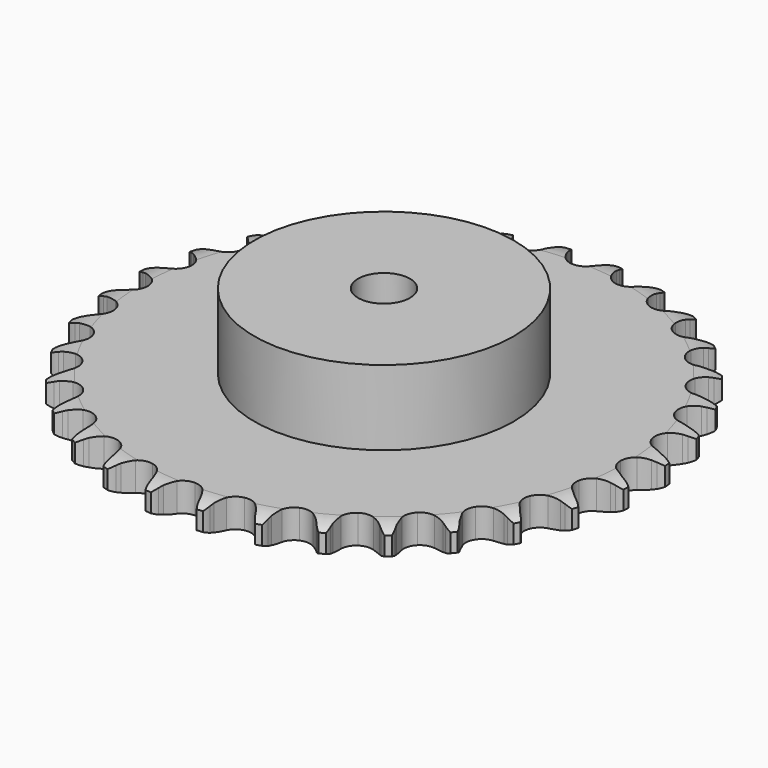
from build123d import *

# Parameters (mm, degrees)
PAD_DEPTH         = 11.1
SKETCH001_R       = 50
PAD001_DEPTH      = 40
SKETCH002_R       = 10
POCKET_DEPTH      = 0.001
POCKET_DEPTH_BACK = 40.001


with BuildPart() as part:
    # Sprocket → Pad (new body)
    with BuildSketch(Plane.XY):
        with BuildLine():
            ThreePointArc((-10.116851, 102.718114), (-8.649052, 100.996178), (-7.613699, 98.984326))
            Line((-7.613699, 98.984326), (-7.024915, 97.419964))
            ThreePointArc((-7.024915, 97.419964), (-6.092294, 95.391135), (-4.882294, 93.514481))
            ThreePointArc((-4.882294, 93.514481), (-2.729224, 91.717825), (0, 91.073606))
            ThreePointArc((0, 91.073606), (2.729224, 91.717825), (4.882294, 93.514481))
            ThreePointArc((4.882294, 93.514481), (6.092294, 95.391135), (7.024915, 97.419964))
            Line((7.024915, 97.419964), (7.613699, 98.984326))
            ThreePointArc((7.613699, 98.984326), (8.649052, 100.996178), (10.116851, 102.718114))
            ThreePointArc((10.116851, 102.718114), (11.220514, 100.742911), (11.84348, 98.567729))
            Line((11.84348, 98.567729), (12.115759, 96.918559))
            ThreePointArc((12.115759, 96.918559), (12.634655, 94.746768), (13.455288, 92.670115))
            ThreePointArc((13.455288, 92.670115), (15.216477, 90.487938), (17.767579, 89.323652))
            ThreePointArc((17.767579, 89.323652), (20.570043, 89.423047), (23.032252, 90.765139))
            Line((23.032252, 90.765139), (25.895625, 94.177574))
            ThreePointArc((25.895625, 94.177574), (26.318124, 94.899003), (26.778288, 95.597011))
            ThreePointArc((26.778288, 95.597011), (28.186239, 97.368218), (29.961769, 98.770715))
            ThreePointArc((29.961769, 98.770715), (30.658882, 96.61815), (30.845521, 94.363229))
            Line((30.845521, 94.363229), (30.790831, 92.692629))
            ThreePointArc((30.790831, 92.692629), (30.876061, 90.461337), (31.275791, 88.264488))
            ThreePointArc((31.275791, 88.264488), (32.577417, 85.78065), (34.85236, 84.141041))
            ThreePointArc((34.85236, 84.141041), (37.620367, 83.691792), (40.297094, 84.527742))
            Line((40.297094, 84.527742), (43.771181, 87.315992))
            ThreePointArc((43.771181, 87.315992), (44.326306, 87.941134), (44.913802, 88.535956))
            ThreePointArc((44.913802, 88.535956), (46.640246, 89.998453), (48.655272, 91.027612))
            ThreePointArc((48.655272, 91.027612), (48.919046, 88.780408), (48.662186, 86.532404))
            Line((48.662186, 86.532404), (48.282629, 84.904573))
            ThreePointArc((48.282629, 84.904573), (47.930918, 82.699527), (47.894383, 80.466907))
            ThreePointArc((47.894383, 80.466907), (48.686426, 77.77686), (50.597785, 75.724936))
            ThreePointArc((50.597785, 75.724936), (53.22496, 74.744308), (56.013341, 75.041992))
            Line((56.013341, 75.041992), (59.964635, 77.098906))
            ThreePointArc((59.964635, 77.098906), (60.631053, 77.603736), (61.323305, 78.072515))
            ThreePointArc((61.323305, 78.072515), (63.301894, 79.170097), (65.478981, 79.786369))
            ThreePointArc((65.478981, 79.786369), (65.299279, 77.530885), (64.60879, 75.376186))
            Line((64.60879, 75.376186), (63.918952, 73.853682))
            ThreePointArc((63.918952, 73.853682), (63.143816, 71.759621), (62.672421, 69.577027))
            ThreePointArc((62.672421, 69.577027), (62.924443, 66.784149), (64.398765, 64.398765))
            ThreePointArc((64.398765, 64.398765), (66.784149, 62.924443), (69.577027, 62.672421))
            Line((69.577027, 62.672421), (73.853682, 63.918952))
            ThreePointArc((73.853682, 63.918952), (74.605782, 64.284071), (75.376186, 64.60879))
            ThreePointArc((75.376186, 64.60879), (77.530885, 65.299279), (79.786369, 65.478981))
            ThreePointArc((79.786369, 65.478981), (79.170097, 63.301894), (78.072515, 61.323305))
            Line((78.072515, 61.323305), (77.098906, 59.964635))
            ThreePointArc((77.098906, 59.964635), (75.930133, 58.062032), (75.041992, 56.013341))
            ThreePointArc((75.041992, 56.013341), (74.744308, 53.22496), (75.724936, 50.597785))
            ThreePointArc((75.724936, 50.597785), (77.77686, 48.686426), (80.466907, 47.894383))
            Line((80.466907, 47.894383), (84.904573, 48.282629))
            ThreePointArc((84.904573, 48.282629), (85.713453, 48.494004), (86.532404, 48.662186))
            ThreePointArc((86.532404, 48.662186), (88.780408, 48.919046), (91.027612, 48.655272))
            ThreePointArc((91.027612, 48.655272), (89.998453, 46.640246), (88.535956, 44.913802))
            Line((88.535956, 44.913802), (87.315992, 43.771181))
            ThreePointArc((87.315992, 43.771181), (85.798497, 42.133153), (84.527742, 40.297094))
            ThreePointArc((84.527742, 40.297094), (83.691792, 37.620367), (84.141041, 34.85236))
            ThreePointArc((84.141041, 34.85236), (85.78065, 32.577417), (88.264488, 31.275791))
            Line((88.264488, 31.275791), (92.692629, 30.790831))
            ThreePointArc((92.692629, 30.790831), (93.527204, 30.84034), (94.363229, 30.845521))
            ThreePointArc((94.363229, 30.845521), (96.61815, 30.658882), (98.770715, 29.961769))
            ThreePointArc((98.770715, 29.961769), (97.368218, 28.186239), (95.597011, 26.778288))
            Line((95.597011, 26.778288), (94.177574, 25.895625))
            ThreePointArc((94.177574, 25.895625), (92.369673, 24.585119), (90.765139, 23.032252))
            ThreePointArc((90.765139, 23.032252), (89.423047, 20.570043), (89.323652, 17.767579))
            ThreePointArc((89.323652, 17.767579), (90.487938, 15.216477), (92.670115, 13.455288))
            Line((92.670115, 13.455288), (96.918559, 12.115759))
            ThreePointArc((96.918559, 12.115759), (97.746757, 12.0015), (98.567729, 11.84348))
            ThreePointArc((98.567729, 11.84348), (100.742911, 11.220514), (102.718114, 10.116851))
            ThreePointArc((102.718114, 10.116851), (100.996178, 8.649052), (98.984326, 7.613699))
            Line((98.984326, 7.613699), (97.419964, 7.024915))
            ThreePointArc((97.419964, 7.024915), (95.391135, 6.092294), (93.514481, 4.882294))
            ThreePointArc((93.514481, 4.882294), (91.717825, 2.729224), (91.073606, 0))
            ThreePointArc((91.073606, 0), (91.717825, -2.729224), (93.514481, -4.882294))
            Line((93.514481, -4.882294), (97.419964, -7.024915))
            ThreePointArc((97.419964, -7.024915), (98.209956, -7.298552), (98.984326, -7.613699))
            ThreePointArc((98.984326, -7.613699), (100.996178, -8.649052), (102.718114, -10.116851))
            ThreePointArc((102.718114, -10.116851), (100.742911, -11.220514), (98.567729, -11.84348))
            Line((98.567729, -11.84348), (96.918559, -12.115759))
            ThreePointArc((96.918559, -12.115759), (94.746768, -12.634655), (92.670115, -13.455288))
            ThreePointArc((92.670115, -13.455288), (90.487938, -15.216477), (89.323652, -17.767579))
            ThreePointArc((89.323652, -17.767579), (89.423047, -20.570043), (90.765139, -23.032252))
            Line((90.765139, -23.032252), (94.177574, -25.895625))
            ThreePointArc((94.177574, -25.895625), (94.899003, -26.318124), (95.597011, -26.778288))
            ThreePointArc((95.597011, -26.778288), (97.368218, -28.186239), (98.770715, -29.961769))
            ThreePointArc((98.770715, -29.961769), (96.61815, -30.658882), (94.363229, -30.845521))
            Line((94.363229, -30.845521), (92.692629, -30.790831))
            ThreePointArc((92.692629, -30.790831), (90.461337, -30.876061), (88.264488, -31.275791))
            ThreePointArc((88.264488, -31.275791), (85.78065, -32.577417), (84.141041, -34.85236))
            ThreePointArc((84.141041, -34.85236), (83.691792, -37.620367), (84.527742, -40.297094))
            Line((84.527742, -40.297094), (87.315992, -43.771181))
            ThreePointArc((87.315992, -43.771181), (87.941134, -44.326306), (88.535956, -44.913802))
            ThreePointArc((88.535956, -44.913802), (89.998453, -46.640246), (91.027612, -48.655272))
            ThreePointArc((91.027612, -48.655272), (88.780408, -48.919046), (86.532404, -48.662186))
            Line((86.532404, -48.662186), (84.904573, -48.282629))
            ThreePointArc((84.904573, -48.282629), (82.699527, -47.930918), (80.466907, -47.894383))
            ThreePointArc((80.466907, -47.894383), (77.77686, -48.686426), (75.724936, -50.597785))
            ThreePointArc((75.724936, -50.597785), (74.744308, -53.22496), (75.041992, -56.013341))
            Line((75.041992, -56.013341), (77.098906, -59.964635))
            ThreePointArc((77.098906, -59.964635), (77.603736, -60.631053), (78.072515, -61.323305))
            ThreePointArc((78.072515, -61.323305), (79.170097, -63.301894), (79.786369, -65.478981))
            ThreePointArc((79.786369, -65.478981), (77.530885, -65.299279), (75.376186, -64.60879))
            Line((75.376186, -64.60879), (73.853682, -63.918952))
            ThreePointArc((73.853682, -63.918952), (71.759621, -63.143816), (69.577027, -62.672421))
            ThreePointArc((69.577027, -62.672421), (66.784149, -62.924443), (64.398765, -64.398765))
            ThreePointArc((64.398765, -64.398765), (62.924443, -66.784149), (62.672421, -69.577027))
            Line((62.672421, -69.577027), (63.918952, -73.853682))
            ThreePointArc((63.918952, -73.853682), (64.284071, -74.605782), (64.60879, -75.376186))
            ThreePointArc((64.60879, -75.376186), (65.299279, -77.530885), (65.478981, -79.786369))
            ThreePointArc((65.478981, -79.786369), (63.301894, -79.170097), (61.323305, -78.072515))
            Line((61.323305, -78.072515), (59.964635, -77.098906))
            ThreePointArc((59.964635, -77.098906), (58.062032, -75.930133), (56.013341, -75.041992))
            ThreePointArc((56.013341, -75.041992), (53.22496, -74.744308), (50.597785, -75.724936))
            ThreePointArc((50.597785, -75.724936), (48.686426, -77.77686), (47.894383, -80.466907))
            Line((47.894383, -80.466907), (48.282629, -84.904573))
            ThreePointArc((48.282629, -84.904573), (48.494004, -85.713453), (48.662186, -86.532404))
            ThreePointArc((48.662186, -86.532404), (48.919046, -88.780408), (48.655272, -91.027612))
            ThreePointArc((48.655272, -91.027612), (46.640246, -89.998453), (44.913802, -88.535956))
            Line((44.913802, -88.535956), (43.771181, -87.315992))
            ThreePointArc((43.771181, -87.315992), (42.133153, -85.798497), (40.297094, -84.527742))
            ThreePointArc((40.297094, -84.527742), (37.620367, -83.691792), (34.85236, -84.141041))
            ThreePointArc((34.85236, -84.141041), (32.577417, -85.78065), (31.275791, -88.264488))
            Line((31.275791, -88.264488), (30.790831, -92.692629))
            ThreePointArc((30.790831, -92.692629), (30.84034, -93.527204), (30.845521, -94.363229))
            ThreePointArc((30.845521, -94.363229), (30.658882, -96.61815), (29.961769, -98.770715))
            ThreePointArc((29.961769, -98.770715), (28.186239, -97.368218), (26.778288, -95.597011))
            Line((26.778288, -95.597011), (25.895625, -94.177574))
            ThreePointArc((25.895625, -94.177574), (24.585119, -92.369673), (23.032252, -90.765139))
            ThreePointArc((23.032252, -90.765139), (20.570043, -89.423047), (17.767579, -89.323652))
            ThreePointArc((17.767579, -89.323652), (15.216477, -90.487938), (13.455288, -92.670115))
            Line((13.455288, -92.670115), (12.115759, -96.918559))
            ThreePointArc((12.115759, -96.918559), (12.0015, -97.746757), (11.84348, -98.567729))
            ThreePointArc((11.84348, -98.567729), (11.220514, -100.742911), (10.116851, -102.718114))
            ThreePointArc((10.116851, -102.718114), (8.649052, -100.996178), (7.613699, -98.984326))
            Line((7.613699, -98.984326), (7.024915, -97.419964))
            ThreePointArc((7.024915, -97.419964), (6.092294, -95.391135), (4.882294, -93.514481))
            ThreePointArc((4.882294, -93.514481), (2.729224, -91.717825), (0, -91.073606))
            ThreePointArc((0, -91.073606), (-2.729224, -91.717825), (-4.882294, -93.514481))
            Line((-4.882294, -93.514481), (-7.024915, -97.419964))
            ThreePointArc((-7.024915, -97.419964), (-7.298552, -98.209956), (-7.613699, -98.984326))
            ThreePointArc((-7.613699, -98.984326), (-8.649052, -100.996178), (-10.116851, -102.718114))
            ThreePointArc((-10.116851, -102.718114), (-11.220514, -100.742911), (-11.84348, -98.567729))
            Line((-11.84348, -98.567729), (-12.115759, -96.918559))
            ThreePointArc((-12.115759, -96.918559), (-12.634655, -94.746768), (-13.455288, -92.670115))
            ThreePointArc((-13.455288, -92.670115), (-15.216477, -90.487938), (-17.767579, -89.323652))
            ThreePointArc((-17.767579, -89.323652), (-20.570043, -89.423047), (-23.032252, -90.765139))
            Line((-23.032252, -90.765139), (-25.895625, -94.177574))
            ThreePointArc((-25.895625, -94.177574), (-26.318124, -94.899003), (-26.778288, -95.597011))
            ThreePointArc((-26.778288, -95.597011), (-28.186239, -97.368218), (-29.961769, -98.770715))
            ThreePointArc((-29.961769, -98.770715), (-30.658882, -96.61815), (-30.845521, -94.363229))
            Line((-30.845521, -94.363229), (-30.790831, -92.692629))
            ThreePointArc((-30.790831, -92.692629), (-30.876061, -90.461337), (-31.275791, -88.264488))
            ThreePointArc((-31.275791, -88.264488), (-32.577417, -85.78065), (-34.85236, -84.141041))
            ThreePointArc((-34.85236, -84.141041), (-37.620367, -83.691792), (-40.297094, -84.527742))
            Line((-40.297094, -84.527742), (-43.771181, -87.315992))
            ThreePointArc((-43.771181, -87.315992), (-44.326306, -87.941134), (-44.913802, -88.535956))
            ThreePointArc((-44.913802, -88.535956), (-46.640246, -89.998453), (-48.655272, -91.027612))
            ThreePointArc((-48.655272, -91.027612), (-48.919046, -88.780408), (-48.662186, -86.532404))
            Line((-48.662186, -86.532404), (-48.282629, -84.904573))
            ThreePointArc((-48.282629, -84.904573), (-47.930918, -82.699527), (-47.894383, -80.466907))
            ThreePointArc((-47.894383, -80.466907), (-48.686426, -77.77686), (-50.597785, -75.724936))
            ThreePointArc((-50.597785, -75.724936), (-53.22496, -74.744308), (-56.013341, -75.041992))
            Line((-56.013341, -75.041992), (-59.964635, -77.098906))
            ThreePointArc((-59.964635, -77.098906), (-60.631053, -77.603736), (-61.323305, -78.072515))
            ThreePointArc((-61.323305, -78.072515), (-63.301894, -79.170097), (-65.478981, -79.786369))
            ThreePointArc((-65.478981, -79.786369), (-65.299279, -77.530885), (-64.60879, -75.376186))
            Line((-64.60879, -75.376186), (-63.918952, -73.853682))
            ThreePointArc((-63.918952, -73.853682), (-63.143816, -71.759621), (-62.672421, -69.577027))
            ThreePointArc((-62.672421, -69.577027), (-62.924443, -66.784149), (-64.398765, -64.398765))
            ThreePointArc((-64.398765, -64.398765), (-66.784149, -62.924443), (-69.577027, -62.672421))
            Line((-69.577027, -62.672421), (-73.853682, -63.918952))
            ThreePointArc((-73.853682, -63.918952), (-74.605782, -64.284071), (-75.376186, -64.60879))
            ThreePointArc((-75.376186, -64.60879), (-77.530885, -65.299279), (-79.786369, -65.478981))
            ThreePointArc((-79.786369, -65.478981), (-79.170097, -63.301894), (-78.072515, -61.323305))
            Line((-78.072515, -61.323305), (-77.098906, -59.964635))
            ThreePointArc((-77.098906, -59.964635), (-75.930133, -58.062032), (-75.041992, -56.013341))
            ThreePointArc((-75.041992, -56.013341), (-74.744308, -53.22496), (-75.724936, -50.597785))
            ThreePointArc((-75.724936, -50.597785), (-77.77686, -48.686426), (-80.466907, -47.894383))
            Line((-80.466907, -47.894383), (-84.904573, -48.282629))
            ThreePointArc((-84.904573, -48.282629), (-85.713453, -48.494004), (-86.532404, -48.662186))
            ThreePointArc((-86.532404, -48.662186), (-88.780408, -48.919046), (-91.027612, -48.655272))
            ThreePointArc((-91.027612, -48.655272), (-89.998453, -46.640246), (-88.535956, -44.913802))
            Line((-88.535956, -44.913802), (-87.315992, -43.771181))
            ThreePointArc((-87.315992, -43.771181), (-85.798497, -42.133153), (-84.527742, -40.297094))
            ThreePointArc((-84.527742, -40.297094), (-83.691792, -37.620367), (-84.141041, -34.85236))
            ThreePointArc((-84.141041, -34.85236), (-85.78065, -32.577417), (-88.264488, -31.275791))
            Line((-88.264488, -31.275791), (-92.692629, -30.790831))
            ThreePointArc((-92.692629, -30.790831), (-93.527204, -30.84034), (-94.363229, -30.845521))
            ThreePointArc((-94.363229, -30.845521), (-96.61815, -30.658882), (-98.770715, -29.961769))
            ThreePointArc((-98.770715, -29.961769), (-97.368218, -28.186239), (-95.597011, -26.778288))
            Line((-95.597011, -26.778288), (-94.177574, -25.895625))
            ThreePointArc((-94.177574, -25.895625), (-92.369673, -24.585119), (-90.765139, -23.032252))
            ThreePointArc((-90.765139, -23.032252), (-89.423047, -20.570043), (-89.323652, -17.767579))
            ThreePointArc((-89.323652, -17.767579), (-90.487938, -15.216477), (-92.670115, -13.455288))
            Line((-92.670115, -13.455288), (-96.918559, -12.115759))
            ThreePointArc((-96.918559, -12.115759), (-97.746757, -12.0015), (-98.567729, -11.84348))
            ThreePointArc((-98.567729, -11.84348), (-100.742911, -11.220514), (-102.718114, -10.116851))
            ThreePointArc((-102.718114, -10.116851), (-100.996178, -8.649052), (-98.984326, -7.613699))
            Line((-98.984326, -7.613699), (-97.419964, -7.024915))
            ThreePointArc((-97.419964, -7.024915), (-95.391135, -6.092294), (-93.514481, -4.882294))
            ThreePointArc((-93.514481, -4.882294), (-91.717825, -2.729224), (-91.073606, 0))
            ThreePointArc((-91.073606, 0), (-91.717825, 2.729224), (-93.514481, 4.882294))
            Line((-93.514481, 4.882294), (-97.419964, 7.024915))
            ThreePointArc((-97.419964, 7.024915), (-98.209956, 7.298552), (-98.984326, 7.613699))
            ThreePointArc((-98.984326, 7.613699), (-100.996178, 8.649052), (-102.718114, 10.116851))
            ThreePointArc((-102.718114, 10.116851), (-100.742911, 11.220514), (-98.567729, 11.84348))
            Line((-98.567729, 11.84348), (-96.918559, 12.115759))
            ThreePointArc((-96.918559, 12.115759), (-94.746768, 12.634655), (-92.670115, 13.455288))
            ThreePointArc((-92.670115, 13.455288), (-90.487938, 15.216477), (-89.323652, 17.767579))
            ThreePointArc((-89.323652, 17.767579), (-89.423047, 20.570043), (-90.765139, 23.032252))
            Line((-90.765139, 23.032252), (-94.177574, 25.895625))
            ThreePointArc((-94.177574, 25.895625), (-94.899003, 26.318124), (-95.597011, 26.778288))
            ThreePointArc((-95.597011, 26.778288), (-97.368218, 28.186239), (-98.770715, 29.961769))
            ThreePointArc((-98.770715, 29.961769), (-96.61815, 30.658882), (-94.363229, 30.845521))
            Line((-94.363229, 30.845521), (-92.692629, 30.790831))
            ThreePointArc((-92.692629, 30.790831), (-90.461337, 30.876061), (-88.264488, 31.275791))
            ThreePointArc((-88.264488, 31.275791), (-85.78065, 32.577417), (-84.141041, 34.85236))
            ThreePointArc((-84.141041, 34.85236), (-83.691792, 37.620367), (-84.527742, 40.297094))
            Line((-84.527742, 40.297094), (-87.315992, 43.771181))
            ThreePointArc((-87.315992, 43.771181), (-87.941134, 44.326306), (-88.535956, 44.913802))
            ThreePointArc((-88.535956, 44.913802), (-89.998453, 46.640246), (-91.027612, 48.655272))
            ThreePointArc((-91.027612, 48.655272), (-88.780408, 48.919046), (-86.532404, 48.662186))
            Line((-86.532404, 48.662186), (-84.904573, 48.282629))
            ThreePointArc((-84.904573, 48.282629), (-82.699527, 47.930918), (-80.466907, 47.894383))
            ThreePointArc((-80.466907, 47.894383), (-77.77686, 48.686426), (-75.724936, 50.597785))
            ThreePointArc((-75.724936, 50.597785), (-74.744308, 53.22496), (-75.041992, 56.013341))
            Line((-75.041992, 56.013341), (-77.098906, 59.964635))
            ThreePointArc((-77.098906, 59.964635), (-77.603736, 60.631053), (-78.072515, 61.323305))
            ThreePointArc((-78.072515, 61.323305), (-79.170097, 63.301894), (-79.786369, 65.478981))
            ThreePointArc((-79.786369, 65.478981), (-77.530885, 65.299279), (-75.376186, 64.60879))
            Line((-75.376186, 64.60879), (-73.853682, 63.918952))
            ThreePointArc((-73.853682, 63.918952), (-71.759621, 63.143816), (-69.577027, 62.672421))
            ThreePointArc((-69.577027, 62.672421), (-66.784149, 62.924443), (-64.398765, 64.398765))
            ThreePointArc((-64.398765, 64.398765), (-62.924443, 66.784149), (-62.672421, 69.577027))
            Line((-62.672421, 69.577027), (-63.918952, 73.853682))
            ThreePointArc((-63.918952, 73.853682), (-64.284071, 74.605782), (-64.60879, 75.376186))
            ThreePointArc((-64.60879, 75.376186), (-65.299279, 77.530885), (-65.478981, 79.786369))
            ThreePointArc((-65.478981, 79.786369), (-63.301894, 79.170097), (-61.323305, 78.072515))
            Line((-61.323305, 78.072515), (-59.964635, 77.098906))
            ThreePointArc((-59.964635, 77.098906), (-58.062032, 75.930133), (-56.013341, 75.041992))
            ThreePointArc((-56.013341, 75.041992), (-53.22496, 74.744308), (-50.597785, 75.724936))
            ThreePointArc((-50.597785, 75.724936), (-48.686426, 77.77686), (-47.894383, 80.466907))
            Line((-47.894383, 80.466907), (-48.282629, 84.904573))
            ThreePointArc((-48.282629, 84.904573), (-48.494004, 85.713453), (-48.662186, 86.532404))
            ThreePointArc((-48.662186, 86.532404), (-48.919046, 88.780408), (-48.655272, 91.027612))
            ThreePointArc((-48.655272, 91.027612), (-46.640246, 89.998453), (-44.913802, 88.535956))
            Line((-44.913802, 88.535956), (-43.771181, 87.315992))
            ThreePointArc((-43.771181, 87.315992), (-42.133153, 85.798497), (-40.297094, 84.527742))
            ThreePointArc((-40.297094, 84.527742), (-37.620367, 83.691792), (-34.85236, 84.141041))
            ThreePointArc((-34.85236, 84.141041), (-32.577417, 85.78065), (-31.275791, 88.264488))
            Line((-31.275791, 88.264488), (-30.790831, 92.692629))
            ThreePointArc((-30.790831, 92.692629), (-30.84034, 93.527204), (-30.845521, 94.363229))
            ThreePointArc((-30.845521, 94.363229), (-30.658882, 96.61815), (-29.961769, 98.770715))
            ThreePointArc((-29.961769, 98.770715), (-28.186239, 97.368218), (-26.778288, 95.597011))
            Line((-26.778288, 95.597011), (-25.895625, 94.177574))
            ThreePointArc((-25.895625, 94.177574), (-24.585119, 92.369673), (-23.032252, 90.765139))
            ThreePointArc((-23.032252, 90.765139), (-20.570043, 89.423047), (-17.767579, 89.323652))
            ThreePointArc((-17.767579, 89.323652), (-15.216477, 90.487938), (-13.455288, 92.670115))
            Line((-13.455288, 92.670115), (-12.115759, 96.918559))
            ThreePointArc((-12.115759, 96.918559), (-12.0015, 97.746757), (-11.84348, 98.567729))
            ThreePointArc((-11.84348, 98.567729), (-11.220514, 100.742911), (-10.116851, 102.718114))
        make_face()
    extrude(amount=PAD_DEPTH)

    # Sketch → Groove (revolve, cut)
    with BuildSketch(Plane.XZ):
        with BuildLine():
            Line((93.164719, 0), (101.65, 0))
            Line((110.135281, 0), (101.65, 0))
            Line((110.135281, 11.1), (110.135281, 0))
            Line((101.65, 11.1), (110.135281, 11.1))
            Line((93.164719, 11.1), (101.65, 11.1))
            ThreePointArc((101.65, 9.1), (97.523618, 10.593242), (93.164719, 11.1))
            Line((101.65, 2), (101.65, 9.1))
            ThreePointArc((93.164719, 0), (97.523618, 0.506758), (101.65, 2))
        make_face()
    revolve(axis=Axis((0, 0, 0), (0, 0, 1)), mode=Mode.SUBTRACT)

    # Sketch001 → Pad001 (join)
    with BuildSketch(Plane.XY):
        Circle(SKETCH001_R)
    extrude(amount=PAD001_DEPTH)

    # Sketch002 → Pocket (cut, two sides)
    with BuildSketch(Plane.XY) as pocket_sk:
        Circle(SKETCH002_R)
    extrude(amount=-POCKET_DEPTH, mode=Mode.SUBTRACT)
    extrude(pocket_sk.sketch, amount=POCKET_DEPTH_BACK, mode=Mode.SUBTRACT)


solid = part.part
